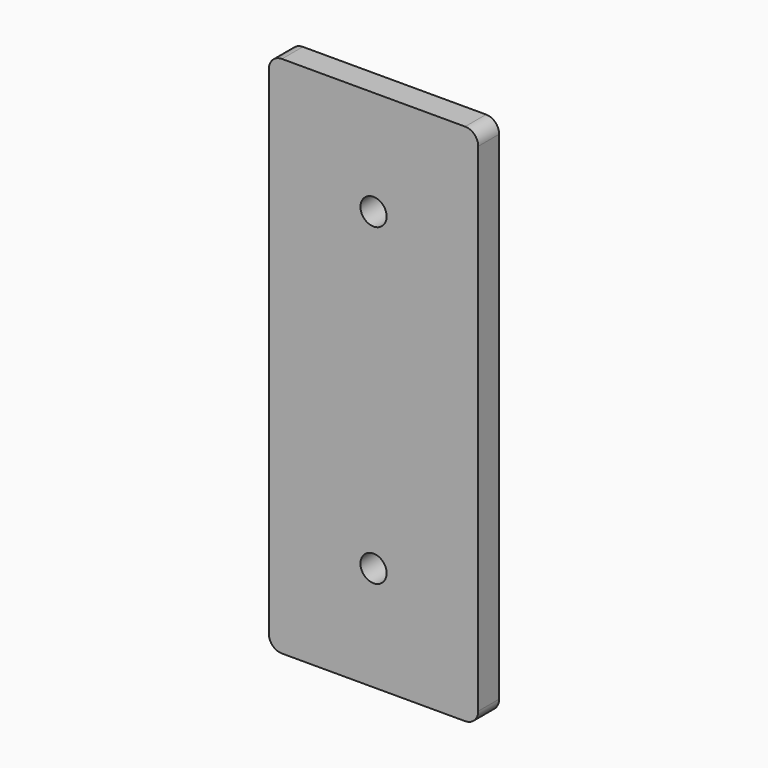
from build123d import *

# Parameters (mm, degrees)
F0_W     = 101.6
F0_H     = 254
F1_DEPTH = 12.7
F2_R     = 6.35
F3_R     = 6.35
F4_DEPTH = 12.701


with BuildPart() as f1:
    # F0 (on Front) → F1 (new body)
    with BuildSketch(Plane.XZ):
        with Locations((50.8, -127)):
            Rectangle(F0_W, F0_H)
    extrude(amount=F1_DEPTH)

    # F2
    f2_edges = [f1.edges().sort_by_distance(p)[0] for p in [
        (101.6, -6.35, 0),
        (0, -6.35, 0),
        (101.6, -6.35, -254),
        (0, -6.35, -254),
    ]]
    fillet(f2_edges, radius=F2_R)

    # F3 (on face) → F4 (cut, through all)
    with BuildSketch(Plane.XZ.offset(12.7)):
        with Locations((50.8, -50.8)):
            Circle(F3_R)
        with Locations((50.8, -203.2)):
            Circle(F3_R)
    extrude(amount=-F4_DEPTH, mode=Mode.SUBTRACT)


solid = f1.part
